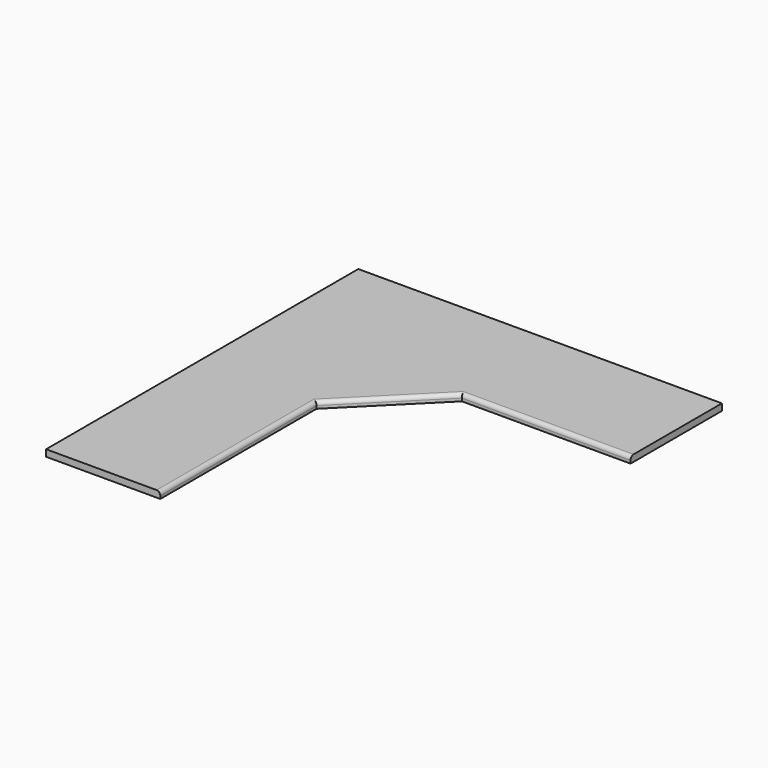
from build123d import *

# Parameters (mm, degrees)
F1_DEPTH = 35
F2_R     = 20


with BuildPart() as f1:
    # F0 (on Top) → F1 (new body)
    with BuildSketch(Plane.XY):
        Polygon((-993.667342, 1110.628466), (-993.667342, -939.371534), (-393.667342, -939.371534), (-393.667342, 86.364397), (30.596727, 510.628466), (916.332658, 510.628466), (916.332658, 1110.628466), align=None)
    extrude(amount=F1_DEPTH)

    # F2
    f2_edges = [f1.edges().sort_by_distance(p)[0] for p in [
        (-393.667342, -426.503569, 35),
        (-181.535307, 298.496431, 35),
        (473.464693, 510.628466, 35),
    ]]
    fillet(f2_edges, radius=F2_R)


solid = f1.part
